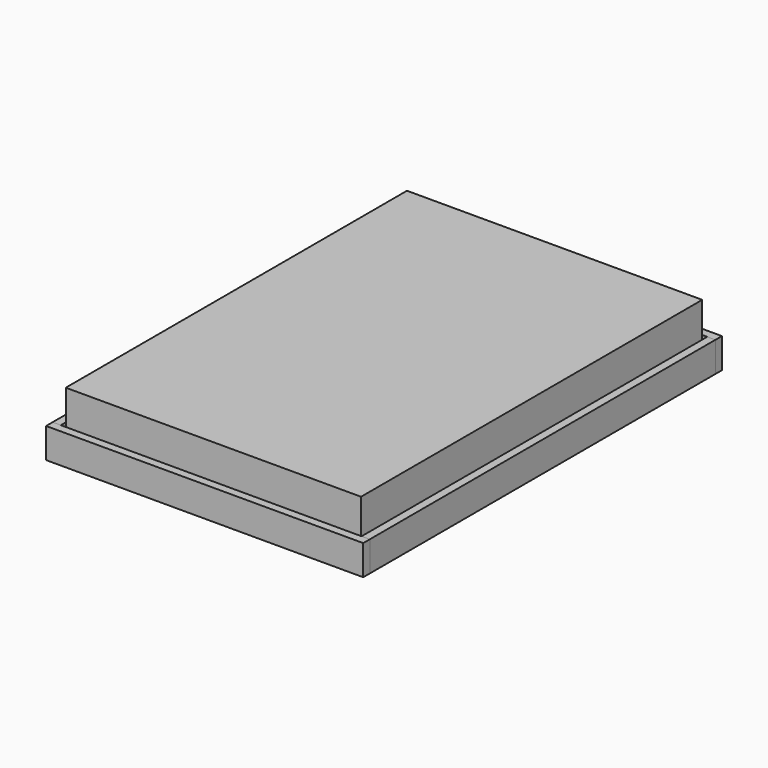
from build123d import *

# Parameters (mm, degrees)
F0_W     = 1371.6
F0_H     = 1981.2
F1_DEPTH = 203.2
F3_W     = 2006.6
F3_H     = 139.7
F4_DEPTH = 38.1
F7_W     = 1473.2
F7_H     = 139.7
F8_DEPTH = 38.1


with BuildPart() as f1:
    # F0 (on Top) → F1 (new body)
    with BuildSketch(Plane.XY):
        Rectangle(F0_W, F0_H)
    extrude(amount=F1_DEPTH)


with BuildPart() as f4:
    # F3 (on offset) → F4 (new body)
    with BuildSketch(Plane.YZ.offset(698.5)):
        with Locations((0, -19.05)):
            Rectangle(F3_W, F3_H)
    extrude(amount=F4_DEPTH)


with BuildPart() as f5_1:
    # F5: instance of F4
    add(f4.part.mirror(Plane.YZ))


with BuildPart() as f8:
    # F7 (on offset) → F8 (new body)
    with BuildSketch(Plane.XZ.offset(1003.3)):
        with Locations((0, -19.05)):
            Rectangle(F7_W, F7_H)
    extrude(amount=F8_DEPTH)


with BuildPart() as f9_1:
    # F9: instance of F8
    add(f8.part.mirror(Plane.XZ))


solid = Compound([f1.part, f4.part, f5_1.part, f8.part, f9_1.part])
